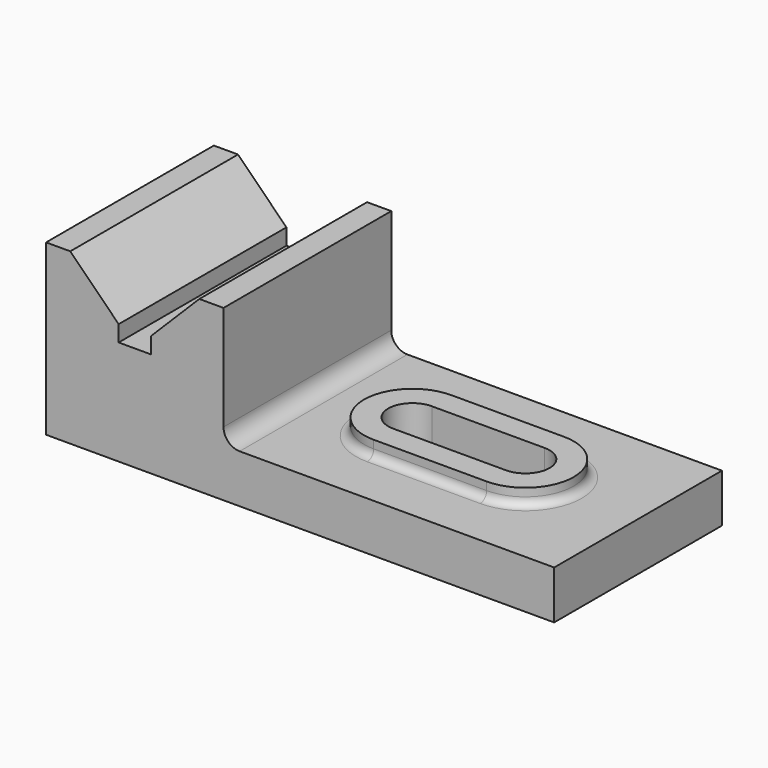
from build123d import *

# Parameters (mm, degrees)
F1_DEPTH = 82.55
F2_W     = 44.45
F2_H     = 9.525
F3_DEPTH = 6.35
F4_DEPTH = 25.4
F5_R     = 3.175


with BuildPart() as f1:
    # F0 (on Front) → F1 (new body)
    with BuildSketch(Plane.XZ):
        with BuildLine():
            Line((-54.025357, 25.4), (-63.550357, 25.4))
            Line((-63.550357, 25.4), (-63.550357, -41.275))
            Line((-63.550357, -41.275), (136.474643, -41.275))
            Line((136.474643, -41.275), (136.474643, -22.225))
            Line((136.474643, -22.225), (12.649643, -22.225))
            ThreePointArc((12.649643, -22.225), (8.159515, -20.365128), (6.299643, -15.875))
            Line((6.299643, -15.875), (6.299643, 25.4))
            Line((6.299643, 25.4), (-3.225357, 25.4))
            Line((-3.225357, 25.4), (-22.275357, 6.35))
            Line((-22.275357, 6.35), (-22.275357, 0))
            Line((-22.275357, 0), (-34.975357, 0))
            Line((-34.975357, 0), (-34.975357, 6.35))
            Line((-34.975357, 6.35), (-54.025357, 25.4))
        make_face()
    extrude(amount=F1_DEPTH)

    # F2 (on face) → F3 (join)
    with BuildSketch(Plane.XY.offset(-22.225)):
        with BuildLine():
            Line((47.66174, -60.325), (47.66174, -50.8))
            ThreePointArc((47.66174, -50.8), (38.13674, -41.275), (47.66174, -31.75))
            Line((47.66174, -31.75), (47.66174, -22.225))
            ThreePointArc((47.66174, -22.225), (28.61174, -41.275), (47.66174, -60.325))
        make_face()
        with Locations((69.88674, -55.5625)):
            Rectangle(F2_W, F2_H)
        with BuildLine():
            ThreePointArc((92.11174, -31.75), (101.63674, -41.275), (92.11174, -50.8))
            Line((92.11174, -50.8), (92.11174, -60.325))
            ThreePointArc((92.11174, -60.325), (111.16174, -41.275), (92.11174, -22.225))
            Line((92.11174, -22.225), (92.11174, -31.75))
        make_face()
        with Locations((69.88674, -26.9875)):
            Rectangle(F2_W, F2_H)
    extrude(amount=F3_DEPTH)

    # F3_face (on face) → F4 (cut)
    with BuildSketch(Plane(origin=(69.88674, -41.275, -22.225), x_dir=(1, 0, 0), z_dir=(0, 0, 1))):
        with BuildLine():
            Line((-22.225, -9.525), (22.225, -9.525))
            ThreePointArc((22.225, -9.525), (31.75, 0), (22.225, 9.525))
            Line((22.225, 9.525), (-22.225, 9.525))
            ThreePointArc((-22.225, 9.525), (-31.75, 0), (-22.225, -9.525))
        make_face()
    extrude(amount=-F4_DEPTH, mode=Mode.SUBTRACT)

    # F5
    f5_edges = [f1.edges().sort_by_distance(p)[0] for p in [
        (69.88674, -60.325, -22.225),
    ]]
    fillet(f5_edges, radius=F5_R)


solid = f1.part
